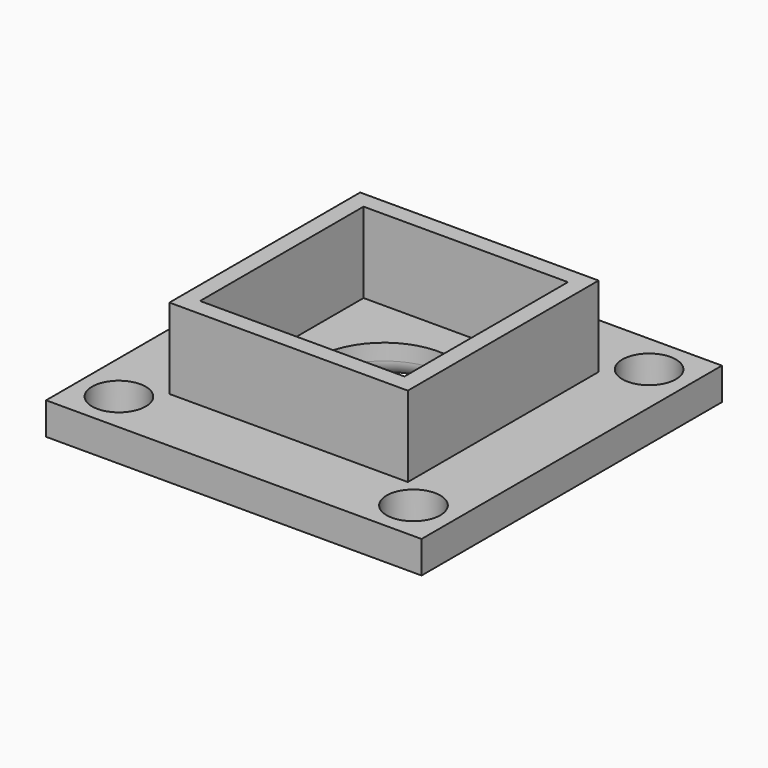
from build123d import *

# Parameters (mm, degrees)
F0_W     = 70
F0_H     = 70
F0_R     = 5.0038
F0_R_2   = 12.7
F0_R_3   = 5
F1_DEPTH = 6
F2_R     = 3
F3_W     = 44.45
F3_H     = 44.45
F3_W_2   = 38.1
F3_H_2   = 38.1
F4_DEPTH = 15


with BuildPart() as f1:
    # F0 (on Top) → F1 (new body)
    with BuildSketch(Plane.XY):
        Rectangle(F0_W, F0_H)
        with Locations((-27.4562, -27.4562)):
            Circle(F0_R, mode=Mode.SUBTRACT)
        with Locations((27.4562, -27.4562)):
            Circle(F0_R, mode=Mode.SUBTRACT)
        with Locations((-27.4562, 27.4562)):
            Circle(F0_R, mode=Mode.SUBTRACT)
        Circle(F0_R_2, mode=Mode.SUBTRACT)
        with Locations((27.46, 27.46)):
            Circle(F0_R_3, mode=Mode.SUBTRACT)
    extrude(amount=F1_DEPTH)

    # F2
    f2_edges = [f1.edges().sort_by_distance(p)[0] for p in [
        (-12.7, 0, 0),
    ]]
    fillet(f2_edges, radius=F2_R)

    # F3 (on face) → F4 (join)
    with BuildSketch(Plane.XY.offset(6)):
        Rectangle(F3_W, F3_H)
        Rectangle(F3_W_2, F3_H_2, mode=Mode.SUBTRACT)
    extrude(amount=F4_DEPTH)


solid = f1.part
